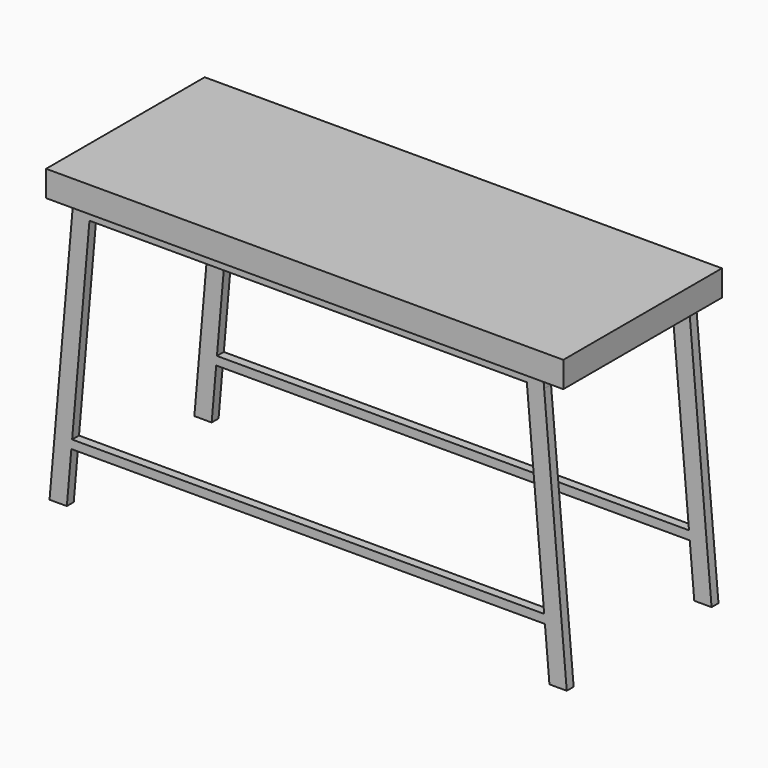
from build123d import *

# Parameters (mm, degrees)
F0_W     = 1524
F0_H     = 584.2
F1_DEPTH = 76.2
F5_DEPTH = 25.4


with BuildPart() as f1:
    # F0 (on Top) → F1 (new body)
    with BuildSketch(Plane.XY):
        Rectangle(F0_W, F0_H)
    extrude(amount=F1_DEPTH)

    # F4 (on offset) → F5 (join)
    with BuildSketch(Plane.XZ.offset(254)):
        Polygon((-644.339591, -25.4), (-695.333638, -25.4), (-762, -787.4), (-711.005952, -787.4), (-697.67268, -635), (-695.450468, -609.6), align=None)
        Polygon((762, -787.4), (695.333638, -25.4), (644.339591, -25.4), (695.450468, -609.6), (697.67268, -635), (711.005952, -787.4), align=None)
        Polygon((693.111426, 0), (-693.111426, 0), (-695.333638, -25.4), (-644.339591, -25.4), (644.339591, -25.4), (695.333638, -25.4), align=None)
        Polygon((695.450468, -609.6), (-695.450468, -609.6), (-697.67268, -635), (697.67268, -635), align=None)
    extrude(amount=F5_DEPTH)

    # F6: F1 across plane


with BuildPart() as f1_1:
    add(f1.part)
    add(f1.part.mirror(Plane.XZ))


solid = f1_1.part
